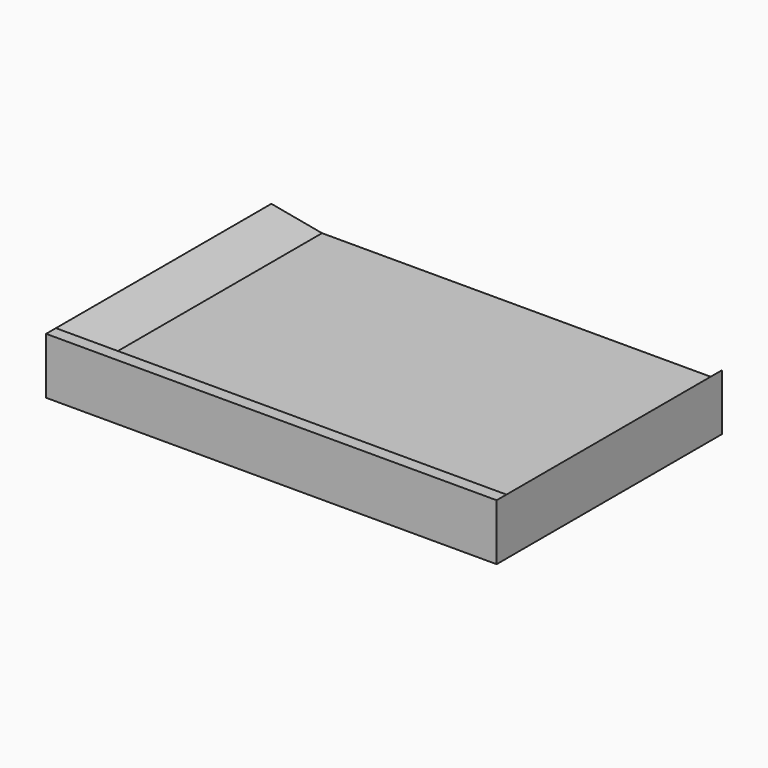
from build123d import *

# Parameters (mm, degrees)
F1_DEPTH = 10
F3_DEPTH = 42.24330811
F4_DEPTH = 37.75869189
F6_DEPTH = 35
F7_DEPTH = 25


with BuildPart() as f1:
    # F0 (on Top) → F1 (new body)
    with BuildSketch(Plane.XY):
        Polygon((32.24230811, 22.8156701593), (-27.75769189, 22.8156701593), (-37.75769189, 12.8156701593), (-37.75769189, -37.1843298407), (42.24230811, -37.1843298407), (42.24230811, 12.8156701593), align=None)
    extrude(amount=F1_DEPTH)

    # F2 (on Right) → F3 (cut, through all)
    with BuildSketch(Plane.YZ):
        Polygon((22.8156701593, 0), (22.8156701593, 10), (12.8156701593, 10), align=None)
    extrude(amount=F3_DEPTH, mode=Mode.SUBTRACT)

    # F2 (on Right) → F4 (cut, through all)
    with BuildSketch(Plane.YZ):
        Polygon((22.8156701593, 0), (22.8156701593, 10), (12.8156701593, 10), align=None)
    extrude(amount=-F4_DEPTH, mode=Mode.SUBTRACT)

    # F5 (on Front) → F6 (cut)
    with BuildSketch(Plane.XZ):
        Polygon((37.24230811, 5), (42.24230811, 10), (-37.75769189, 10), (-32.75769189, 5), align=None)
    extrude(amount=F6_DEPTH, mode=Mode.SUBTRACT)

    # F5 (on Front) → F7 (cut)
    with BuildSketch(Plane.XZ):
        Polygon((37.24230811, 5), (42.24230811, 10), (-37.75769189, 10), (-32.75769189, 5), align=None)
    extrude(amount=-F7_DEPTH, mode=Mode.SUBTRACT)


solid = f1.part
